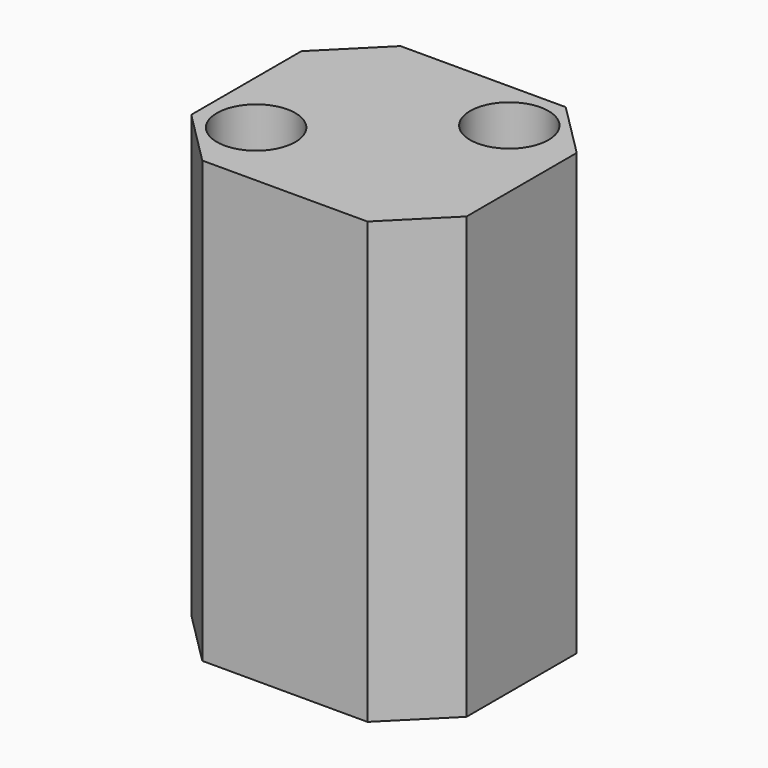
from build123d import *

# Parameters (mm, degrees)
F0_W           = 50
F0_H           = 45
F1_DEPTH       = 30
F2_SIZE        = 10
F4_D           = 8.8
F4_CBORE_D     = 14.25
F4_CBORE_DEPTH = 8
F5_DEPTH       = 50


with BuildPart() as f1:
    # F0 (on Top) → F1 (new body)
    with BuildSketch(Plane.XY):
        with Locations((-2.2690217942, 1.8614111841)):
            Rectangle(F0_W, F0_H)
    extrude(amount=F1_DEPTH)

    # F2
    f2_edges = [f1.edges().sort_by_distance(p)[0] for p in [
        (-27.269022, 24.361411, 15),
        (22.730978, -20.638589, 15),
        (22.730978, 24.361411, 15),
        (-27.269022, -20.638589, 15),
    ]]
    chamfer(f2_edges, length=F2_SIZE)

    # F4 (through all)
    with Locations(Plane.XY.offset(30)):
        with Locations((-17.6340711126, -7.961328021), (10.0047006537, 14.9650736012)):
            CounterBoreHole(F4_D / 2, F4_CBORE_D / 2, F4_CBORE_DEPTH)

    # F5 (add): a face of the model
    f5_faces = [f1.faces().sort_by_distance(p)[0] for p in [
        (-1.9842087331, 1.5591300529, 30),
    ]]
    extrude(f5_faces, amount=F5_DEPTH)


solid = f1.part
